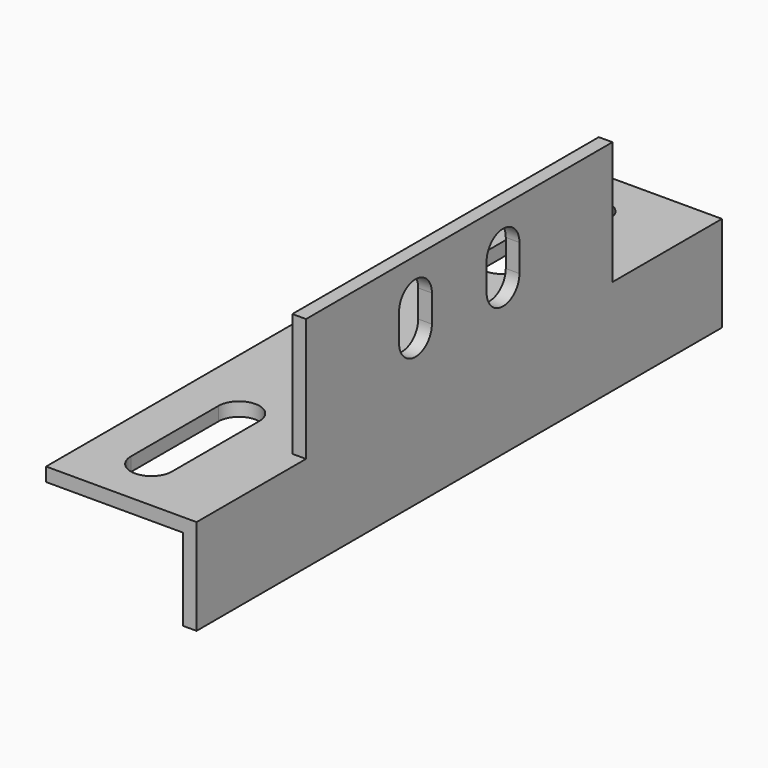
from build123d import *

# Parameters (mm, degrees)
F1_DEPTH = 304.8
F2_W     = 63.5
F2_H     = 57.15
F3_DEPTH = 6.35
F5_DEPTH = 6.35


with BuildPart() as f1:
    # F0 (on Front) → F1 (new body)
    with BuildSketch(Plane.XZ):
        Polygon((0, 38.1), (0, 0), (6.35, 0), (6.35, 101.6), (0, 101.6), (0, 44.45), (-63.5, 44.45), (-63.5, 38.1), align=None)
    extrude(amount=F1_DEPTH)

    # F2 (on face) → F3 (cut, through all)
    with BuildSketch(Plane.YZ.offset(6.35)):
        with Locations((-273.05, 73.025)):
            Rectangle(F2_W, F2_H)
        with Locations((-31.75, 73.025)):
            Rectangle(F2_W, F2_H)
        with BuildLine():
            Line((-168.275, 69.85), (-168.275, 82.55))
            ThreePointArc((-168.275, 82.55), (-177.8, 92.075), (-187.325, 82.55))
            Line((-187.325, 82.55), (-187.325, 69.85))
            ThreePointArc((-187.325, 69.85), (-177.8, 60.325), (-168.275, 69.85))
        make_face()
        with BuildLine():
            ThreePointArc((-117.475, 82.55), (-127, 92.075), (-136.525, 82.55))
            Line((-136.525, 82.55), (-136.525, 69.85))
            ThreePointArc((-136.525, 69.85), (-127, 60.325), (-117.475, 69.85))
            Line((-117.475, 69.85), (-117.475, 82.55))
        make_face()
    extrude(amount=-F3_DEPTH, mode=Mode.SUBTRACT)

    # F4 (on face) → F5 (cut, through all)
    with BuildSketch(Plane.XY.offset(44.45)):
        with BuildLine():
            Line((-25.4, -279.4), (-25.4, -228.6))
            ThreePointArc((-25.4, -228.6), (-34.925, -219.075), (-44.45, -228.6))
            Line((-44.45, -228.6), (-44.45, -279.4))
            ThreePointArc((-44.45, -279.4), (-34.925, -288.925), (-25.4, -279.4))
        make_face()
        with BuildLine():
            ThreePointArc((-44.45, -76.2), (-34.925, -85.725), (-25.4, -76.2))
            Line((-25.4, -76.2), (-25.4, -25.4))
            ThreePointArc((-25.4, -25.4), (-34.925, -15.875), (-44.45, -25.4))
            Line((-44.45, -25.4), (-44.45, -76.2))
        make_face()
    extrude(amount=-F5_DEPTH, mode=Mode.SUBTRACT)


solid = f1.part
